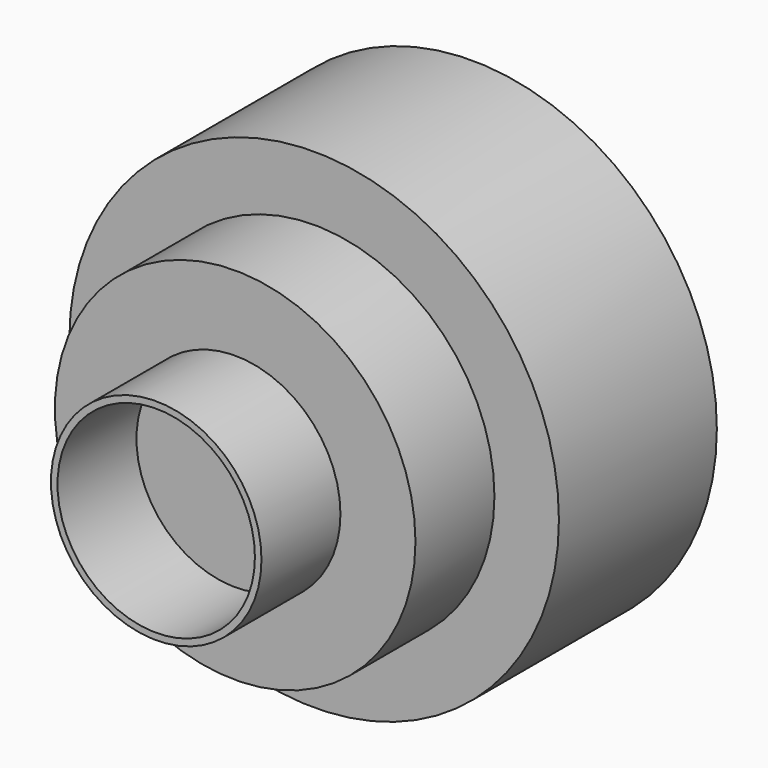
from build123d import *

# Parameters (mm, degrees)
F0_R     = 31
F1_DEPTH = 12.5
F2_R     = 22.832123
F3_DEPTH = 25
F4_R     = 13.330594
F4_R_2   = 12.5
F5_DEPTH = 12.5


with BuildPart() as f1:
    # F0 (on Front) → F1 (new body, symmetric)
    with BuildSketch(Plane.XZ):
        Circle(F0_R)
    extrude(amount=F1_DEPTH, both=True)

    # F2 (on Front) → F3 (join)
    with BuildSketch(Plane.XZ):
        Circle(F2_R)
    extrude(amount=F3_DEPTH)

    # F4 (on face) → F5 (join, symmetric)
    with BuildSketch(Plane.XZ.offset(25)):
        Circle(F4_R)
        Circle(F4_R_2, mode=Mode.SUBTRACT)
    extrude(amount=F5_DEPTH, both=True)


solid = f1.part
